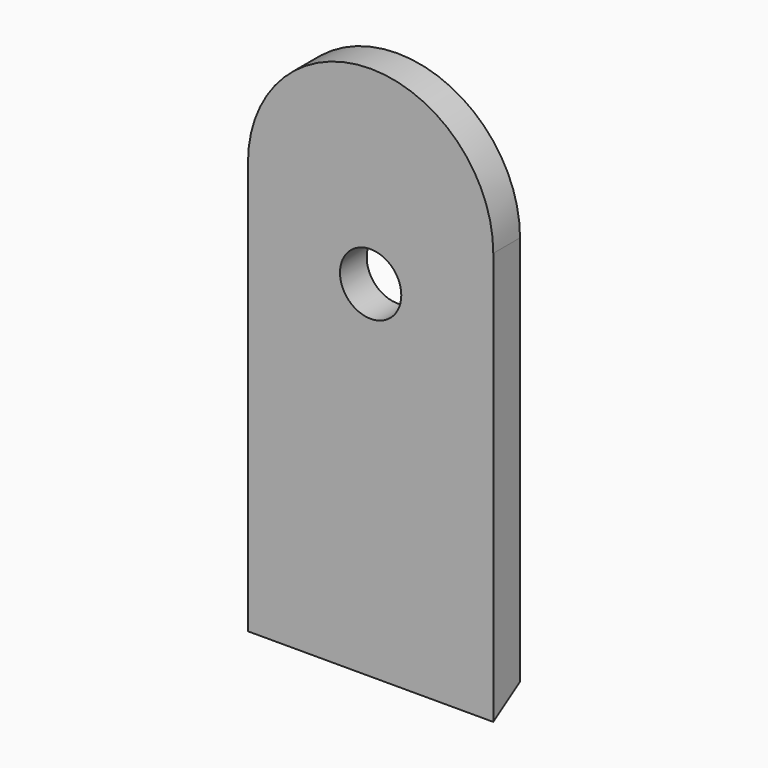
from build123d import *

# Parameters (mm, degrees)
F1_DEPTH = 19.05
F3_DEPTH = 139.701
F4_R     = 17.4625
F5_DEPTH = 19.051


with BuildPart() as f1:
    # F0 (on Front) → F1 (new body)
    with BuildSketch(Plane.XZ):
        with BuildLine():
            Line((0, 234.95), (0, 0))
            Line((0, 0), (139.7, 0))
            Line((139.7, 0), (139.7, 234.95))
            ThreePointArc((139.7, 234.95), (69.85, 304.8), (0, 234.95))
        make_face()
    extrude(amount=F1_DEPTH)

    # F2 (on face) → F3 (cut, through all)
    with BuildSketch(Plane.YZ.offset(139.7)):
        Polygon((0, 12.371215), (-19.05, 0), (0, 0), align=None)
    extrude(amount=-F3_DEPTH, mode=Mode.SUBTRACT)

    # F4 (on face) → F5 (cut, through all)
    with BuildSketch(Plane.XZ.offset(19.05)):
        with Locations((69.85, 196.85)):
            Circle(F4_R)
    extrude(amount=-F5_DEPTH, mode=Mode.SUBTRACT)


solid = f1.part
